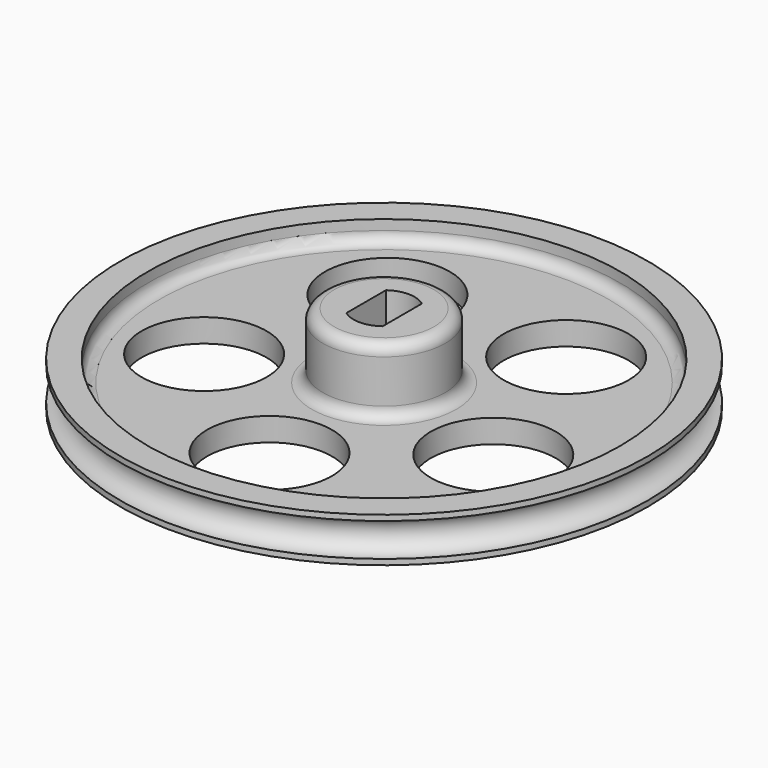
from build123d import *

# Parameters (mm, degrees)
CYLINDER004_R           = 5.625
CYLINDER004_DEPTH       = 20
ARRAY_COUNT             = 5
ARRAY_PLACEMENT_ANGLE   = 127.662
CYLINDER003_R           = 1.5
CYLINDER003_DEPTH       = 20
CYLINDER003_PITCH_ANGLE = 90
CYLINDER002_R           = 2.75
CYLINDER002_DEPTH       = 12
BOX_W                   = 3.25
BOX_H                   = 12
BOX_DEPTH               = 12
CYLINDER005_R           = 21.25
CYLINDER005_DEPTH       = 10
TORUS_R                 = 1.5
CYLINDER_R              = 23.75
CYLINDER_DEPTH          = 4
CYLINDER001_R           = 5.5
CYLINDER001_DEPTH       = 8
FILLET_R                = 1


with BuildPart() as array:
    # Cylinder004 → Cylinder004 (new body)
    with BuildSketch(Plane(origin=(13.375, 0, 0), x_dir=(1, 0, 0), z_dir=(0, 0, 1))):
        Circle(CYLINDER004_R)
    extrude(amount=CYLINDER004_DEPTH)

    # Array: Array ×5 about axis
    array_axis = Axis((0, 0, 0), (0, 0, 1))


with BuildPart() as array_1:
    add(array.part)
    for i in range(1, ARRAY_COUNT):
        add(array.part.rotate(array_axis, i * 360 / ARRAY_COUNT))


with BuildPart() as array_2:
    # Array placement: moved
    add(array_1.part.rotate(Axis((0, 0, 0), (0, 0, 1)), ARRAY_PLACEMENT_ANGLE))


with BuildPart() as setscrew:
    # Cylinder003 → Cylinder003 (new body)
    with BuildSketch(Plane.XY):
        Circle(CYLINDER003_R)
    extrude(amount=CYLINDER003_DEPTH)


with BuildPart() as setscrew_1:
    # Cylinder003 pitch: moved
    add(setscrew.part.rotate(Axis((0, 0, 0), (0, 1, 0)), CYLINDER003_PITCH_ANGLE))


with BuildPart() as setscrew_2:
    # Cylinder003 placement: moved
    add(setscrew_1.part.moved(Location((-10, 0, 15))))


with BuildPart() as cylinder001:
    # Cylinder002 → Cylinder002 (new body)
    with BuildSketch(Plane.XY):
        Circle(CYLINDER002_R)
    extrude(amount=CYLINDER002_DEPTH)


with BuildPart() as shaft:
    # Box → Box (new body)
    with BuildSketch(Plane(origin=(-1.6125, -6, 0), x_dir=(1, 0, 0), z_dir=(0, 0, 1))):
        with Locations((1.625, 6)):
            Rectangle(BOX_W, BOX_H)
    extrude(amount=BOX_DEPTH)

    # Common: intersect Cylinder001
    add(cylinder001.part, mode=Mode.INTERSECT)


with BuildPart() as cylinder002:
    # Cylinder005 → Cylinder005 (new body)
    with BuildSketch(Plane.XY.offset(2.1)):
        Circle(CYLINDER005_R)
    extrude(amount=CYLINDER005_DEPTH)


with BuildPart() as torus:
    # Torus → Torus (revolve)
    with BuildSketch(Plane(origin=(0, 0, 2), x_dir=(1, 0, 0), z_dir=(0, -1, 0))):
        with Locations((23.75, 0)):
            Circle(TORUS_R)
    revolve(axis=Axis((0, 0, 2), (0, 0, 1)))


with BuildPart() as cut002:
    # Cylinder → Cylinder (new body)
    with BuildSketch(Plane.XY):
        Circle(CYLINDER_R)
    extrude(amount=CYLINDER_DEPTH)

    # Cut: cut Torus
    add(torus.part, mode=Mode.SUBTRACT)

    # Cut002: cut Cylinder002
    add(cylinder002.part, mode=Mode.SUBTRACT)


with BuildPart() as fillet_body:
    # Cylinder001 → Cylinder001 (new body)
    with BuildSketch(Plane.XY):
        Circle(CYLINDER001_R)
    extrude(amount=CYLINDER001_DEPTH)

    # Fusion: union Cut002
    add(cut002.part)

    # Cut003: cut shaft
    add(shaft.part, mode=Mode.SUBTRACT)

    # Cut004: cut setscrew
    add(setscrew_2.part, mode=Mode.SUBTRACT)

    # Cut005: cut Array
    add(array_2.part, mode=Mode.SUBTRACT)

    # Fillet
    fillet_edges = [fillet_body.edges().sort_by_distance(p)[0] for p in [
        (-21.25, 0, 2.1),
        (-5.5, 0, 2.1),
        (-5.5, 0, 8),
    ]]
    fillet(fillet_edges, radius=FILLET_R)


solid = fillet_body.part
